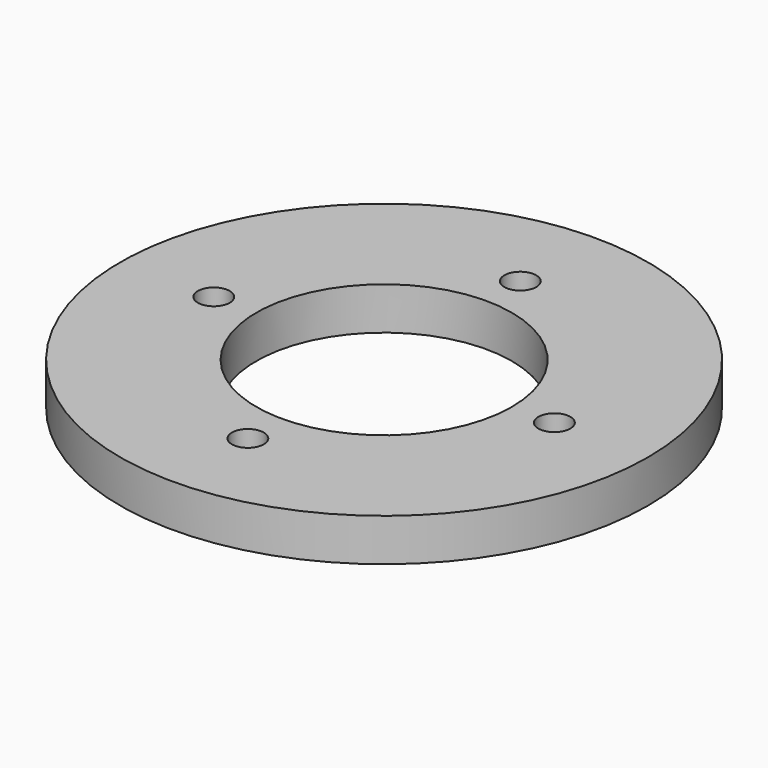
from build123d import *

# Parameters (mm, degrees)
CYLINDER275_R               = 1.5
CYLINDER275_DEPTH           = 16
CYLINDER275_PLACEMENT_ANGLE = 67.5
CYLINDER273_R               = 1.5
CYLINDER273_DEPTH           = 16
CYLINDER273_PLACEMENT_ANGLE = 22.5
CYLINDER274_R               = 1.5
CYLINDER274_DEPTH           = 16
CYLINDER274_PLACEMENT_ANGLE = 112.5
CYLINDER272_R               = 1.5
CYLINDER272_DEPTH           = 16
CYLINDER272_PLACEMENT_ANGLE = 202.5
TUBE030_R                   = 24.8
TUBE030_R_2                 = 12
TUBE030_DEPTH               = 4


with BuildPart() as obj1:
    # Cylinder275 → Cylinder275 (new body)
    with BuildSketch(Plane.XY):
        Circle(CYLINDER275_R)
    extrude(amount=CYLINDER275_DEPTH)


with BuildPart() as obj1_1:
    # Cylinder275 placement: moved
    add(obj1.part.moved(Location((0, 16, 2))).rotate(Axis((0, 16, 2), (0, 0, -1)), CYLINDER275_PLACEMENT_ANGLE))


with BuildPart() as obj2:
    # Cylinder273 → Cylinder273 (new body)
    with BuildSketch(Plane.XY):
        Circle(CYLINDER273_R)
    extrude(amount=CYLINDER273_DEPTH)


with BuildPart() as obj2_1:
    # Cylinder273 placement: moved
    add(obj2.part.moved(Location((-16, 0, 2))).rotate(Axis((-16, 0, 2), (0, 0, 1)), CYLINDER273_PLACEMENT_ANGLE))


with BuildPart() as obj3:
    # Cylinder274 → Cylinder274 (new body)
    with BuildSketch(Plane.XY):
        Circle(CYLINDER274_R)
    extrude(amount=CYLINDER274_DEPTH)


with BuildPart() as obj3_1:
    # Cylinder274 placement: moved
    add(obj3.part.moved(Location((0, -16, 2))).rotate(Axis((0, -16, 2), (0, 0, 1)), CYLINDER274_PLACEMENT_ANGLE))


with BuildPart() as compound233:
    # Cylinder272 → Cylinder272 (new body)
    with BuildSketch(Plane.XY):
        Circle(CYLINDER272_R)
    extrude(amount=CYLINDER272_DEPTH)


with BuildPart() as compound233_1:
    # Cylinder272 placement: moved
    add(compound233.part.moved(Location((16, 0, 2))).rotate(Axis((16, 0, 2), (0, 0, 1)), CYLINDER272_PLACEMENT_ANGLE))

    # Compound233: union obj1, obj2, obj3
    add(obj1_1.part)
    add(obj2_1.part)
    add(obj3_1.part)


with BuildPart() as compound233_2:
    # Compound233 placement: moved
    add(compound233_1.part.moved(Location((0, 0, -117))))


with BuildPart() as cut124:
    # Tube030 → Tube030 (new body)
    with BuildSketch(Plane.XY.offset(-103)):
        Circle(TUBE030_R)
        Circle(TUBE030_R_2, mode=Mode.SUBTRACT)
    extrude(amount=TUBE030_DEPTH)

    # Cut124: cut Compound233
    add(compound233_2.part, mode=Mode.SUBTRACT)


with BuildPart() as cut124_1:
    # Cut124 placement: moved
    add(cut124.part.moved(Location((0, 0, -1))))


solid = cut124_1.part
